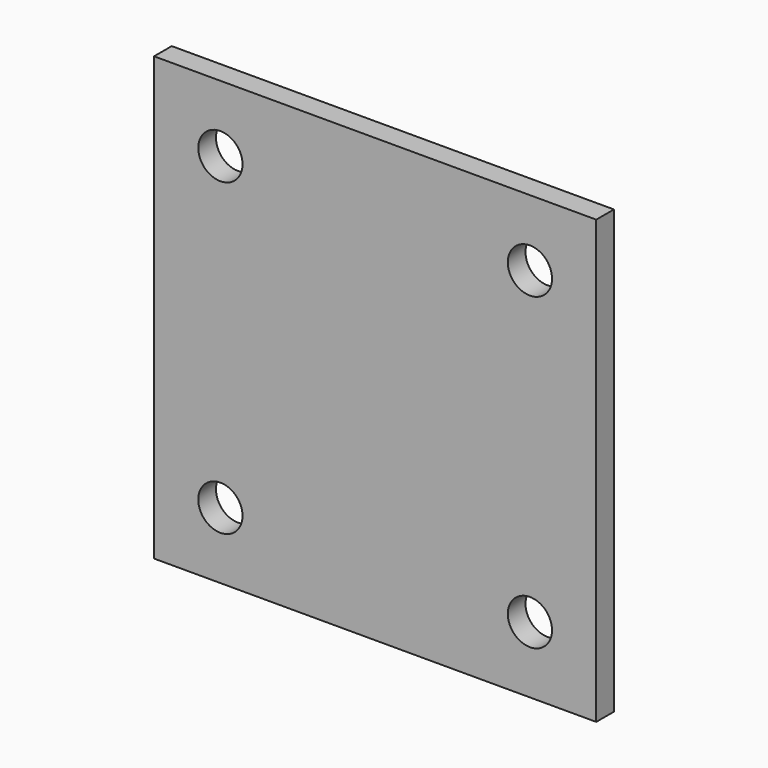
from build123d import *

# Parameters (mm, degrees)
F0_W     = 100
F0_H     = 100
F1_DEPTH = 5
F2_R     = 5
F3_DEPTH = 5.001


with BuildPart() as f1:
    # F0 (on Front) → F1 (new body)
    with BuildSketch(Plane.XZ):
        with Locations((50, 50)):
            Rectangle(F0_W, F0_H)
    extrude(amount=F1_DEPTH)

    # F2 (on face) → F3 (cut, through all)
    with BuildSketch(Plane.XZ.offset(5)):
        with Locations((15, 85)):
            Circle(F2_R)
        with Locations((85, 85)):
            Circle(F2_R)
        with Locations((15, 15)):
            Circle(F2_R)
        with Locations((85, 15)):
            Circle(F2_R)
    extrude(amount=-F3_DEPTH, mode=Mode.SUBTRACT)


solid = f1.part
